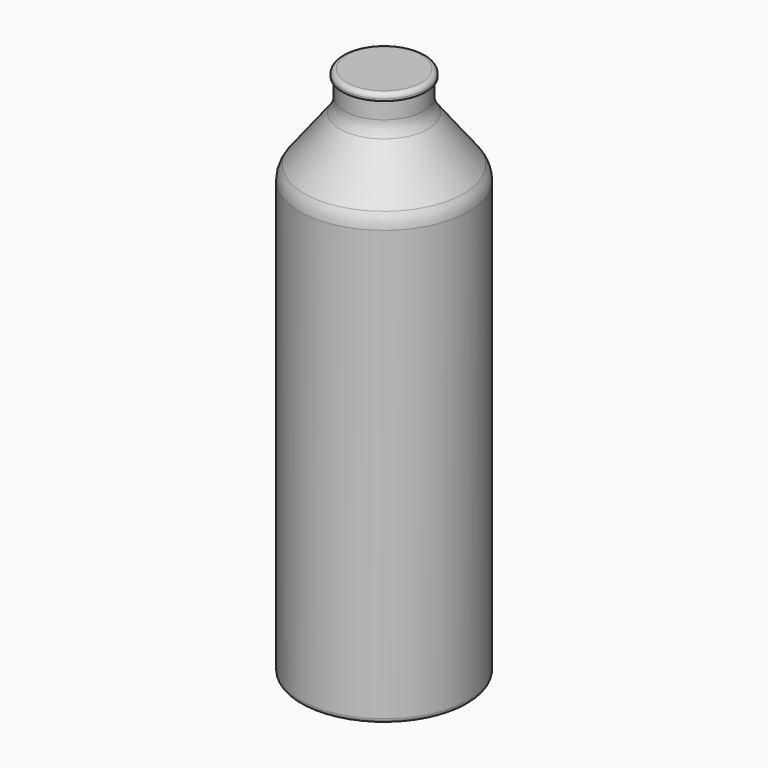
from build123d import *


with BuildPart() as f1:
    # F0 (on Front) → F1 (revolve)
    with BuildSketch(Plane.XZ):
        with BuildLine():
            Line((0, 230), (0, 0))
            Line((0, 0), (34.425, 0))
            ThreePointArc((34.425, 0), (35.839214, 0.585786), (36.425, 2))
            Line((36.425, 2), (36.425, 187.571632))
            ThreePointArc((36.425, 187.571632), (35.884518, 190.814703), (34.321498, 193.70721))
            Line((34.321498, 193.70721), (19.103502, 213.29279))
            ThreePointArc((19.103502, 213.29279), (17.540482, 216.185297), (17, 219.428368))
            Line((17, 219.428368), (17, 226.75))
            ThreePointArc((17, 226.75), (17.073223, 226.926777), (17.25, 227))
            Line((17.25, 227), (17.85, 227))
            ThreePointArc((17.85, 227), (18.026777, 227.073223), (18.1, 227.25))
            Line((18.1, 227.25), (18.1, 228))
            ThreePointArc((18.1, 228), (17.514214, 229.414214), (16.1, 230))
            Line((16.1, 230), (0, 230))
        make_face()
    revolve(axis=Axis((0, 0, 115), (0, 0, 1)))


solid = f1.part
